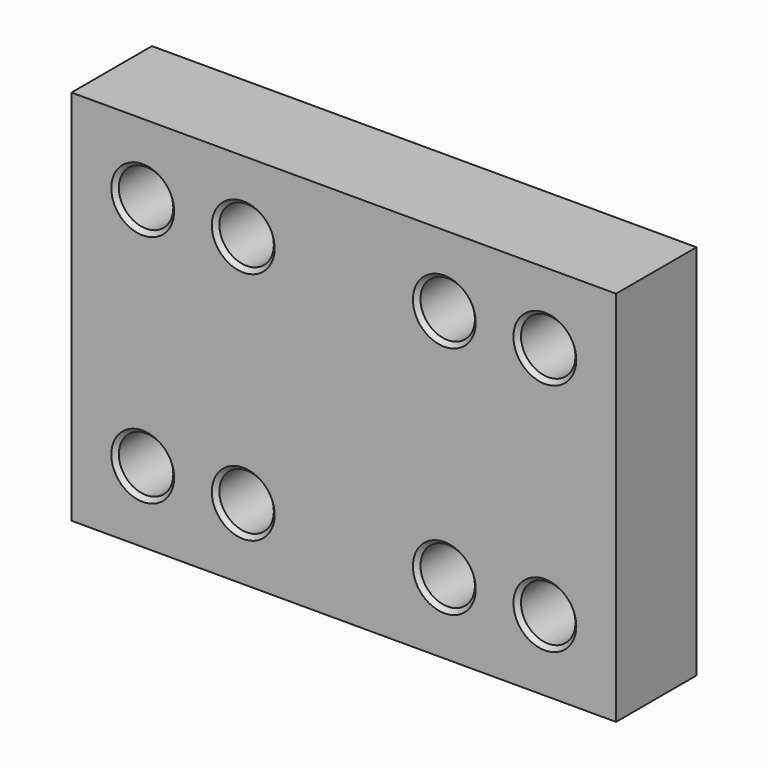
from build123d import *

# Parameters (mm, degrees)
F0_W     = 65
F0_H     = 45
F0_R     = 3.25
F1_DEPTH = 12
F2_SIZE  = 0.5


with BuildPart() as f1:
    # F0 (on Front) → F1 (new body)
    with BuildSketch(Plane.XZ):
        Rectangle(F0_W, F0_H)
        with Locations((-24, -14)):
            Circle(F0_R, mode=Mode.SUBTRACT)
        with Locations((-12, -14)):
            Circle(F0_R, mode=Mode.SUBTRACT)
        with Locations((12, -14)):
            Circle(F0_R, mode=Mode.SUBTRACT)
        with Locations((24, -14)):
            Circle(F0_R, mode=Mode.SUBTRACT)
        with Locations((-24, 14)):
            Circle(F0_R, mode=Mode.SUBTRACT)
        with Locations((-12, 14)):
            Circle(F0_R, mode=Mode.SUBTRACT)
        with Locations((12, 14)):
            Circle(F0_R, mode=Mode.SUBTRACT)
        with Locations((24, 14)):
            Circle(F0_R, mode=Mode.SUBTRACT)
    extrude(amount=F1_DEPTH)

    # F2
    f2_edges = [f1.edges().sort_by_distance(p)[0] for p in [
        (-20.75, -6, 14),
        (-27.25, 0, 14),
        (-27.25, -12, 14),
        (-8.75, -6, 14),
        (-15.25, 0, 14),
        (-15.25, -12, 14),
        (-20.75, -6, -14),
        (-27.25, 0, -14),
        (-27.25, -12, -14),
        (-8.75, -6, -14),
        (-15.25, 0, -14),
        (-15.25, -12, -14),
        (15.25, -6, 14),
        (8.75, 0, 14),
        (8.75, -12, 14),
        (27.25, -6, 14),
        (20.75, 0, 14),
        (20.75, -12, 14),
        (27.25, -6, -14),
        (20.75, 0, -14),
        (20.75, -12, -14),
        (15.25, -6, -14),
        (8.75, 0, -14),
        (8.75, -12, -14),
    ]]
    chamfer(f2_edges, length=F2_SIZE)


solid = f1.part
